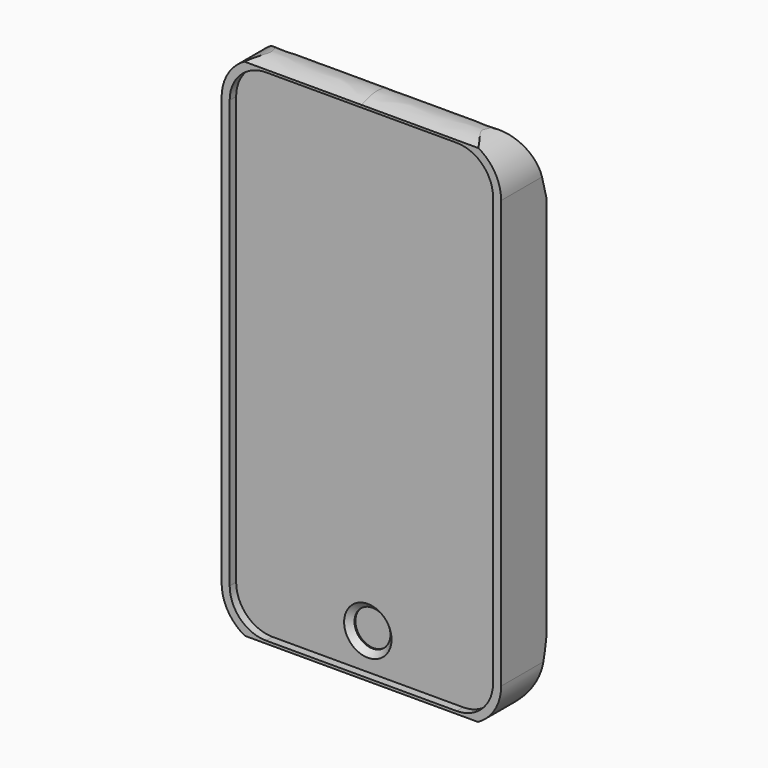
from build123d import *

# Parameters (mm, degrees)
F0_R     = 3.9502971089
F1_DEPTH = 10.668
F2_DEPTH = 12.446
F3_START = 9.144
F3_DEPTH = 9.906
F4_SIZE  = 1.27
F6_DEPTH = 34.798
F8_DEPTH = 31.75


with BuildPart() as f1:
    # F0 (on Front) → F1 (new body)
    with BuildSketch(Plane.XZ):
        with BuildLine():
            Line((-20.9762947197, -56.8147292361), (20.9762947197, -56.8147292361))
            ThreePointArc((20.9762947197, -56.8147292361), (27.8910919329, -53.9505264493), (30.7552947197, -47.0357292361))
            Line((30.7552947197, -47.0357292361), (30.7552947197, 47.0357292361))
            ThreePointArc((30.7552947197, 47.0357292361), (27.8910919329, 53.9505264493), (20.9762947197, 56.8147292361))
            Line((20.9762947197, 56.8147292361), (-20.9762947197, 56.8147292361))
            ThreePointArc((-20.9762947197, 56.8147292361), (-27.8910919329, 53.9505264493), (-30.7552947197, 47.0357292361))
            Line((-30.7552947197, 47.0357292361), (-30.7552947197, -47.0357292361))
            ThreePointArc((-30.7552947197, -47.0357292361), (-27.8910919329, -53.9505264493), (-20.9762947197, -56.8147292361))
        make_face()
        with BuildLine():
            ThreePointArc((20.9762947197, 55.0367310643), (26.6338573688, 52.6932918851), (28.977296548, 47.0357292361))
            Line((28.977296548, 47.0357292361), (28.977296548, -47.0357292361))
            ThreePointArc((28.977296548, -47.0357292361), (26.6338573688, -52.6932918851), (20.9762947197, -55.0367310643))
            Line((20.9762947197, -55.0367310643), (-20.9762947197, -55.0367310643))
            ThreePointArc((-20.9762947197, -55.0367310643), (-26.6338573688, -52.6932918851), (-28.977296548, -47.0357292361))
            Line((-28.977296548, -47.0357292361), (-28.977296548, 47.0357292361))
            ThreePointArc((-28.977296548, 47.0357292361), (-26.6338573688, 52.6932918851), (-20.9762947197, 55.0367310643))
            Line((-20.9762947197, 55.0367310643), (20.9762947197, 55.0367310643))
        make_face(mode=Mode.SUBTRACT)
        with BuildLine():
            Line((28.977296548, -47.0357292361), (28.977296548, 47.0357292361))
            ThreePointArc((28.977296548, 47.0357292361), (26.6338573688, 52.6932918851), (20.9762947197, 55.0367310643))
            Line((20.9762947197, 55.0367310643), (-20.9762947197, 55.0367310643))
            ThreePointArc((-20.9762947197, 55.0367310643), (-26.6338573688, 52.6932918851), (-28.977296548, 47.0357292361))
            Line((-28.977296548, 47.0357292361), (-28.977296548, -47.0357292361))
            ThreePointArc((-28.977296548, -47.0357292361), (-26.6338573688, -52.6932918851), (-20.9762947197, -55.0367310643))
            Line((-20.9762947197, -55.0367310643), (20.9762947197, -55.0367310643))
            ThreePointArc((20.9762947197, -55.0367310643), (26.6338573688, -52.6932918851), (28.977296548, -47.0357292361))
        make_face()
        with Locations((0, -47.0412708819)):
            Circle(F0_R, mode=Mode.SUBTRACT)
        with Locations((0, -47.0412708819)):
            Circle(F0_R)
    extrude(amount=F1_DEPTH)

    # F0 (on Front) → F2 (join)
    with BuildSketch(Plane.XZ):
        with BuildLine():
            Line((-20.9762947197, -56.8147292361), (20.9762947197, -56.8147292361))
            ThreePointArc((20.9762947197, -56.8147292361), (27.8910919329, -53.9505264493), (30.7552947197, -47.0357292361))
            Line((30.7552947197, -47.0357292361), (30.7552947197, 47.0357292361))
            ThreePointArc((30.7552947197, 47.0357292361), (27.8910919329, 53.9505264493), (20.9762947197, 56.8147292361))
            Line((20.9762947197, 56.8147292361), (-20.9762947197, 56.8147292361))
            ThreePointArc((-20.9762947197, 56.8147292361), (-27.8910919329, 53.9505264493), (-30.7552947197, 47.0357292361))
            Line((-30.7552947197, 47.0357292361), (-30.7552947197, -47.0357292361))
            ThreePointArc((-30.7552947197, -47.0357292361), (-27.8910919329, -53.9505264493), (-20.9762947197, -56.8147292361))
        make_face()
        with BuildLine():
            ThreePointArc((20.9762947197, 55.0367310643), (26.6338573688, 52.6932918851), (28.977296548, 47.0357292361))
            Line((28.977296548, 47.0357292361), (28.977296548, -47.0357292361))
            ThreePointArc((28.977296548, -47.0357292361), (26.6338573688, -52.6932918851), (20.9762947197, -55.0367310643))
            Line((20.9762947197, -55.0367310643), (-20.9762947197, -55.0367310643))
            ThreePointArc((-20.9762947197, -55.0367310643), (-26.6338573688, -52.6932918851), (-28.977296548, -47.0357292361))
            Line((-28.977296548, -47.0357292361), (-28.977296548, 47.0357292361))
            ThreePointArc((-28.977296548, 47.0357292361), (-26.6338573688, 52.6932918851), (-20.9762947197, 55.0367310643))
            Line((-20.9762947197, 55.0367310643), (20.9762947197, 55.0367310643))
        make_face(mode=Mode.SUBTRACT)
    extrude(amount=F2_DEPTH)

    # F0 (on Front) → F3 (cut)
    with BuildSketch(Plane.XZ.offset(F3_START)):
        with Locations((0, -47.0412708819)):
            Circle(F0_R)
    extrude(amount=F3_DEPTH, mode=Mode.SUBTRACT)

    # F4
    f4_edges = [f1.edges().sort_by_distance(p)[0] for p in [
        (-3.950297, -10.668, -47.041271),
    ]]
    chamfer(f4_edges, length=F4_SIZE)

    # F5 (on Right) → F6 (cut, symmetric)
    with BuildSketch(Plane.YZ):
        with BuildLine():
            add(Edge.make_bspline(
                [(0, 42.5107741586), (-3.4692891864, 56.6401603672), (-7.0298959202, 56.2049565258), (-9.0349917024, 56.7605619607), (-12.6958908513, 55.4829351604)],
                knots=[0, 0, 0, 0, 0.6298452958, 1, 1, 1, 1], degree=3))
            Line((0, 42.5107741586), (8.7041649967, 42.5107741586))
            Line((8.7041649967, 42.5107741586), (-8.2542682061, 71.9105228782))
            Line((-8.2542682061, 71.9105228782), (-15.3796598309, 57.517234236))
            Line((-15.3796598309, 57.517234236), (-12.6958908513, 55.4829351604))
        make_face()
        with BuildLine():
            Line((6.5665482543, -51.9287921488), (0, -42.5107741586))
            add(Edge.make_bspline(
                [(0, -42.5107741586), (-1.797141266, -55.9935070445), (-8.9519337422, -57.0148502385), (-11.6335880011, -56.1241805553), (-12.6958908513, -55.4829351604)],
                knots=[0, 0, 0, 0, 0.6945936189, 1, 1, 1, 1], degree=3))
            Line((-12.6958908513, -55.4829351604), (-17.793700099, -53.5118058324))
            Line((-17.793700099, -53.5118058324), (-3.83652444, -63.5))
            Line((-3.83652444, -63.5), (6.5665482543, -51.9287921488))
        make_face()
    extrude(amount=F6_DEPTH, both=True, mode=Mode.SUBTRACT)

    # F7 (on Right) → F8 (join)
    with BuildSketch(Plane.YZ):
        with BuildLine():
            Line((-5.6370437269, 18.863574058), (-5.6370437269, 36.3614898325))
            ThreePointArc((-5.6370437269, 36.3614898325), (-6.8880598859, 37.6125059916), (-8.139076045, 36.3614898325))
            Line((-8.139076045, 36.3614898325), (-8.139076045, 18.863574058))
            ThreePointArc((-8.139076045, 18.863574058), (-6.8880598859, 17.6125578989), (-5.6370437269, 18.863574058))
        make_face()
        with BuildLine():
            Line((-5.7985300421, 42.3662230318), (-5.7985300421, 45.7263958405))
            ThreePointArc((-5.7985300421, 45.7263958405), (-6.9122834376, 46.8401492361), (-8.0260368332, 45.7263958405))
            Line((-8.0260368332, 45.7263958405), (-8.0260368332, 42.3662230318))
            ThreePointArc((-8.0260368332, 42.3662230318), (-6.9122834376, 41.2524696362), (-5.7985300421, 42.3662230318))
        make_face()
    extrude(amount=-F8_DEPTH)


solid = f1.part
